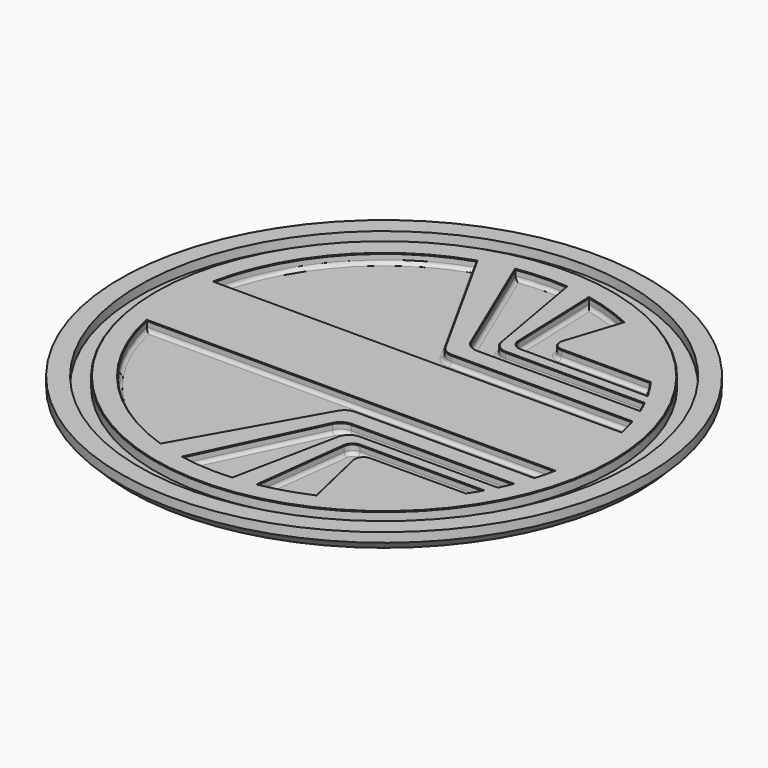
from build123d import *

# Parameters (mm, degrees)
F1_R     = 56.5
F1_R_2   = 52.5
F1_R_3   = 49
F2_DEPTH = 4
F3_DEPTH = 2
F4_R     = 0.75
F5_SIZE  = 0.15
F6_SIZE  = 2


with BuildPart() as f2:
    # F1 (on Top) → F2 (new body)
    with BuildSketch(Plane.XY):
        Circle(F1_R)
        Circle(F1_R_2, mode=Mode.SUBTRACT)
        Circle(F1_R_2)
        Circle(F1_R_3, mode=Mode.SUBTRACT)
        Circle(F1_R_3)
        with BuildLine():
            Line((6.6638755171, -17), (41.12481003, -17))
            ThreePointArc((41.12481003, -17), (40.5816608901, -18.2586636806), (40, -19.5))
            Line((40, -19.5), (10.5168130375, -19.5))
            ThreePointArc((10.5168130375, -19.5), (8.6186970519, -20.1768220678), (7.5770389237, -21.9018961967))
            Line((7.5770389237, -21.9018961967), (3, -44.398761244))
            ThreePointArc((3, -44.398761244), (-2.5193792388, -44.4286250997), (-8, -43.7749928612))
            Line((-8, -43.7749928612), (3.9561196641, -18.7084667096))
            ThreePointArc((3.9561196641, -18.7084667096), (5.0630319694, -17.4628165349), (6.6638755171, -17))
        make_face(mode=Mode.SUBTRACT)
        with BuildLine():
            Line((12.4430834662, -22), (38.6813908747, -22))
            ThreePointArc((38.6813908747, -22), (37.9354708337, -23.2626321088), (37.148351242, -24.5))
            Line((37.148351242, -24.5), (16.7749606187, -24.5))
            ThreePointArc((16.7749606187, -24.5), (15.209744305, -25.2549707267), (14.8262204891, -26.9499021087))
            Line((14.8262204891, -26.9499021087), (18, -40.6970514902))
            ThreePointArc((18, -40.6970514902), (13.0907765534, -42.5309483697), (8, -43.7749928612))
            Line((8, -43.7749928612), (10.457991163, -23.7562613132))
            ThreePointArc((10.457991163, -23.7562613132), (11.1178433698, -22.5020885584), (12.4430834662, -22))
        make_face(mode=Mode.SUBTRACT)
        with BuildLine():
            ThreePointArc((-14, -42.240383521), (-33.2431342179, -29.5828333222), (-43.5803854962, -9))
            Line((-43.5803854962, -9), (43.5803854962, -9))
            ThreePointArc((43.5803854962, -9), (43.1159956631, -11.0118535214), (42.5587828773, -13))
            Line((42.5587828773, -13), (4.2929613101, -13))
            ThreePointArc((4.2929613101, -13), (2.781639379, -13.4084934844), (1.6818942223, -14.5227293197))
            Line((1.6818942223, -14.5227293197), (-14, -42.240383521))
        make_face(mode=Mode.SUBTRACT)
        with BuildLine():
            ThreePointArc((-43.5803854962, 9), (-33.2431342179, 29.5828333222), (-14, 42.240383521))
            Line((-14, 42.240383521), (1.3514851815, 14.5455711393))
            ThreePointArc((1.3514851815, 14.5455711393), (2.452729214, 13.4151125187), (3.9753443029, 13))
            Line((3.9753443029, 13), (42.5587828773, 13))
            ThreePointArc((42.5587828773, 13), (43.1159956631, 11.0118535214), (43.5803854962, 9))
            Line((43.5803854962, 9), (-43.5803854962, 9))
        make_face(mode=Mode.SUBTRACT)
        with BuildLine():
            Line((3.662036097, 18.8278066145), (-7, 43.9459895781))
            ThreePointArc((-7, 43.9459895781), (-1.7623270262, 44.465089716), (3.5, 44.3621460256))
            Line((3.5, 44.3621460256), (7.4467427771, 21.979055467))
            ThreePointArc((7.4467427771, 21.979055467), (8.4728032071, 20.2018666706), (10.4011660362, 19.5))
            Line((10.4011660362, 19.5), (40, 19.5))
            ThreePointArc((40, 19.5), (40.5816608901, 18.2586636806), (41.12481003, 17))
            Line((41.12481003, 17), (6.4235506573, 17))
            ThreePointArc((6.4235506573, 17), (4.7677397014, 17.4983425338), (3.662036097, 18.8278066145))
        make_face(mode=Mode.SUBTRACT)
        with BuildLine():
            Line((9.686199563, 23.9302010066), (9, 43.5803854962))
            ThreePointArc((9, 43.5803854962), (14.0992801781, 42.2073488679), (19, 40.2399055665))
            Line((19, 40.2399055665), (15.2238250173, 28.6180339887))
            ThreePointArc((15.2238250173, 28.6180339887), (15.5079040611, 26.8244294954), (17.1259380499, 26))
            Line((17.1259380499, 26), (36.1144015595, 26))
            ThreePointArc((36.1144015595, 26), (37.4513369783, 24.0342954658), (38.6813908747, 22))
            Line((38.6813908747, 22), (11.6849812171, 22))
            ThreePointArc((11.6849812171, 22), (10.2956644762, 22.5613203993), (9.686199563, 23.9302010066))
        make_face(mode=Mode.SUBTRACT)
        with BuildLine():
            ThreePointArc((40, -19.5), (40.5816608901, -18.2586636806), (41.12481003, -17))
            Line((41.12481003, -17), (6.6638755171, -17))
            ThreePointArc((6.6638755171, -17), (5.0630319694, -17.4628165349), (3.9561196641, -18.7084667096))
            Line((3.9561196641, -18.7084667096), (-8, -43.7749928612))
            ThreePointArc((-8, -43.7749928612), (-2.5193792388, -44.4286250997), (3, -44.398761244))
            Line((3, -44.398761244), (7.5770389237, -21.9018961967))
            ThreePointArc((7.5770389237, -21.9018961967), (8.6186970519, -20.1768220678), (10.5168130375, -19.5))
            Line((10.5168130375, -19.5), (40, -19.5))
        make_face()
        with BuildLine():
            ThreePointArc((37.148351242, -24.5), (37.9354708337, -23.2626321088), (38.6813908747, -22))
            Line((38.6813908747, -22), (12.4430834662, -22))
            ThreePointArc((12.4430834662, -22), (11.1178433698, -22.5020885584), (10.457991163, -23.7562613132))
            Line((10.457991163, -23.7562613132), (8, -43.7749928612))
            ThreePointArc((8, -43.7749928612), (13.0907765534, -42.5309483697), (18, -40.6970514902))
            Line((18, -40.6970514902), (14.8262204891, -26.9499021087))
            ThreePointArc((14.8262204891, -26.9499021087), (15.209744305, -25.2549707267), (16.7749606187, -24.5))
            Line((16.7749606187, -24.5), (37.148351242, -24.5))
        make_face()
        with BuildLine():
            Line((1.3514851815, 14.5455711393), (-14, 42.240383521))
            ThreePointArc((-14, 42.240383521), (-33.2431342179, 29.5828333222), (-43.5803854962, 9))
            Line((-43.5803854962, 9), (43.5803854962, 9))
            ThreePointArc((43.5803854962, 9), (43.1159956631, 11.0118535214), (42.5587828773, 13))
            Line((42.5587828773, 13), (3.9753443029, 13))
            ThreePointArc((3.9753443029, 13), (2.452729214, 13.4151125187), (1.3514851815, 14.5455711393))
        make_face()
        with BuildLine():
            ThreePointArc((3.5, 44.3621460256), (-1.7623270262, 44.465089716), (-7, 43.9459895781))
            Line((-7, 43.9459895781), (3.662036097, 18.8278066145))
            ThreePointArc((3.662036097, 18.8278066145), (4.7677397014, 17.4983425338), (6.4235506573, 17))
            Line((6.4235506573, 17), (41.12481003, 17))
            ThreePointArc((41.12481003, 17), (40.5816608901, 18.2586636806), (40, 19.5))
            Line((40, 19.5), (10.4011660362, 19.5))
            ThreePointArc((10.4011660362, 19.5), (8.4728032071, 20.2018666706), (7.4467427771, 21.979055467))
            Line((7.4467427771, 21.979055467), (3.5, 44.3621460256))
        make_face()
        with BuildLine():
            ThreePointArc((19, 40.2399055665), (14.0992801781, 42.2073488679), (9, 43.5803854962))
            Line((9, 43.5803854962), (9.686199563, 23.9302010066))
            ThreePointArc((9.686199563, 23.9302010066), (10.2956644762, 22.5613203993), (11.6849812171, 22))
            Line((11.6849812171, 22), (38.6813908747, 22))
            ThreePointArc((38.6813908747, 22), (37.4513369783, 24.0342954658), (36.1144015595, 26))
            Line((36.1144015595, 26), (17.1259380499, 26))
            ThreePointArc((17.1259380499, 26), (15.5079040611, 26.8244294954), (15.2238250173, 28.6180339887))
            Line((15.2238250173, 28.6180339887), (19, 40.2399055665))
        make_face()
        with BuildLine():
            Line((43.5803854962, -9), (-43.5803854962, -9))
            ThreePointArc((-43.5803854962, -9), (-33.2431342179, -29.5828333222), (-14, -42.240383521))
            Line((-14, -42.240383521), (1.6818942223, -14.5227293197))
            ThreePointArc((1.6818942223, -14.5227293197), (2.781639379, -13.4084934844), (4.2929613101, -13))
            Line((4.2929613101, -13), (42.5587828773, -13))
            ThreePointArc((42.5587828773, -13), (43.1159956631, -11.0118535214), (43.5803854962, -9))
        make_face()
    extrude(amount=-F2_DEPTH)

    # F1 (on Top) → F3 (cut)
    with BuildSketch(Plane.XY):
        Circle(F1_R_2)
        Circle(F1_R_3, mode=Mode.SUBTRACT)
        with BuildLine():
            Line((1.3514851815, 14.5455711393), (-14, 42.240383521))
            ThreePointArc((-14, 42.240383521), (-33.2431342179, 29.5828333222), (-43.5803854962, 9))
            Line((-43.5803854962, 9), (43.5803854962, 9))
            ThreePointArc((43.5803854962, 9), (43.1159956631, 11.0118535214), (42.5587828773, 13))
            Line((42.5587828773, 13), (3.9753443029, 13))
            ThreePointArc((3.9753443029, 13), (2.452729214, 13.4151125187), (1.3514851815, 14.5455711393))
        make_face()
        with BuildLine():
            ThreePointArc((3.5, 44.3621460256), (-1.7623270262, 44.465089716), (-7, 43.9459895781))
            Line((-7, 43.9459895781), (3.662036097, 18.8278066145))
            ThreePointArc((3.662036097, 18.8278066145), (4.7677397014, 17.4983425338), (6.4235506573, 17))
            Line((6.4235506573, 17), (41.12481003, 17))
            ThreePointArc((41.12481003, 17), (40.5816608901, 18.2586636806), (40, 19.5))
            Line((40, 19.5), (10.4011660362, 19.5))
            ThreePointArc((10.4011660362, 19.5), (8.4728032071, 20.2018666706), (7.4467427771, 21.979055467))
            Line((7.4467427771, 21.979055467), (3.5, 44.3621460256))
        make_face()
        with BuildLine():
            ThreePointArc((19, 40.2399055665), (14.0992801781, 42.2073488679), (9, 43.5803854962))
            Line((9, 43.5803854962), (9.686199563, 23.9302010066))
            ThreePointArc((9.686199563, 23.9302010066), (10.2956644762, 22.5613203993), (11.6849812171, 22))
            Line((11.6849812171, 22), (38.6813908747, 22))
            ThreePointArc((38.6813908747, 22), (37.4513369783, 24.0342954658), (36.1144015595, 26))
            Line((36.1144015595, 26), (17.1259380499, 26))
            ThreePointArc((17.1259380499, 26), (15.5079040611, 26.8244294954), (15.2238250173, 28.6180339887))
            Line((15.2238250173, 28.6180339887), (19, 40.2399055665))
        make_face()
        with BuildLine():
            ThreePointArc((37.148351242, -24.5), (37.9354708337, -23.2626321088), (38.6813908747, -22))
            Line((38.6813908747, -22), (12.4430834662, -22))
            ThreePointArc((12.4430834662, -22), (11.1178433698, -22.5020885584), (10.457991163, -23.7562613132))
            Line((10.457991163, -23.7562613132), (8, -43.7749928612))
            ThreePointArc((8, -43.7749928612), (13.0907765534, -42.5309483697), (18, -40.6970514902))
            Line((18, -40.6970514902), (14.8262204891, -26.9499021087))
            ThreePointArc((14.8262204891, -26.9499021087), (15.209744305, -25.2549707267), (16.7749606187, -24.5))
            Line((16.7749606187, -24.5), (37.148351242, -24.5))
        make_face()
        with BuildLine():
            ThreePointArc((40, -19.5), (40.5816608901, -18.2586636806), (41.12481003, -17))
            Line((41.12481003, -17), (6.6638755171, -17))
            ThreePointArc((6.6638755171, -17), (5.0630319694, -17.4628165349), (3.9561196641, -18.7084667096))
            Line((3.9561196641, -18.7084667096), (-8, -43.7749928612))
            ThreePointArc((-8, -43.7749928612), (-2.5193792388, -44.4286250997), (3, -44.398761244))
            Line((3, -44.398761244), (7.5770389237, -21.9018961967))
            ThreePointArc((7.5770389237, -21.9018961967), (8.6186970519, -20.1768220678), (10.5168130375, -19.5))
            Line((10.5168130375, -19.5), (40, -19.5))
        make_face()
        with BuildLine():
            Line((43.5803854962, -9), (-43.5803854962, -9))
            ThreePointArc((-43.5803854962, -9), (-33.2431342179, -29.5828333222), (-14, -42.240383521))
            Line((-14, -42.240383521), (1.6818942223, -14.5227293197))
            ThreePointArc((1.6818942223, -14.5227293197), (2.781639379, -13.4084934844), (4.2929613101, -13))
            Line((4.2929613101, -13), (42.5587828773, -13))
            ThreePointArc((42.5587828773, -13), (43.1159956631, -11.0118535214), (43.5803854962, -9))
        make_face()
    extrude(amount=-F3_DEPTH, mode=Mode.SUBTRACT)

    # F4
    f4_edges = [f2.edges().sort_by_distance(p)[0] for p in [
        (-6.324257, 28.392977, -2),
        (-33.243134, 29.582833, -2),
        (0, 9, -2),
        (43.115996, 11.011854, -2),
        (23.267064, 13, -2),
        (2.452729, 13.415113, -2),
        (25.200583, 19.5, -2),
        (8.472803, 20.201867, -2),
        (5.473371, 33.170601, -2),
        (-1.762327, 44.46509, -2),
        (-1.668982, 31.386898, -2),
        (4.76774, 17.498343, -2),
        (23.77418, 17, -2),
        (40.581661, 18.258664, -2),
        (14.09928, 42.207349, -2),
        (9.3431, 33.755293, -2),
        (10.295664, 22.56132, -2),
        (25.183186, 22, -2),
        (37.451337, 24.034295, -2),
        (26.62017, 26, -2),
        (15.507904, 26.824429, -2),
        (17.111913, 34.42897, -2),
        (0, -9, -2),
        (-33.243134, -29.582833, -2),
        (-6.159053, -28.381556, -2),
        (2.781639, -13.408493, -2),
        (23.425872, -13, -2),
        (43.115996, -11.011854, -2),
        (40.581661, -18.258664, -2),
        (23.894343, -17, -2),
        (5.063032, -17.462817, -2),
        (-2.02194, -31.24173, -2),
        (-2.519379, -44.428625, -2),
        (5.288519, -33.150329, -2),
        (8.618697, -20.176822, -2),
        (25.258407, -19.5, -2),
        (37.935471, -23.262632, -2),
        (25.562237, -22, -2),
        (11.117843, -22.502089, -2),
        (9.228996, -33.765627, -2),
        (13.090777, -42.530948, -2),
        (16.41311, -33.823477, -2),
        (15.209744, -25.254971, -2),
        (26.961656, -24.5, -2),
    ]]
    fillet(f4_edges, radius=F4_R)

    # F5
    f5_edges = [f2.edges().sort_by_distance(p)[0] for p in [
        (-49, 0, 0),
        (37.935471, -23.262632, 0),
        (25.562237, -22, 0),
        (11.117843, -22.502089, 0),
        (9.228996, -33.765627, 0),
        (13.090777, -42.530948, 0),
        (16.41311, -33.823477, 0),
        (15.209744, -25.254971, 0),
        (26.961656, -24.5, 0),
        (40.581661, -18.258664, 0),
        (23.894343, -17, 0),
        (5.063032, -17.462817, 0),
        (-2.02194, -31.24173, 0),
        (-2.519379, -44.428625, 0),
        (5.288519, -33.150329, 0),
        (8.618697, -20.176822, 0),
        (25.258407, -19.5, 0),
        (0, -9, 0),
        (-33.243134, -29.582833, 0),
        (-6.159053, -28.381556, 0),
        (2.781639, -13.408493, 0),
        (23.425872, -13, 0),
        (43.115996, -11.011854, 0),
        (-6.324257, 28.392977, 0),
        (-33.243134, 29.582833, 0),
        (0, 9, 0),
        (43.115996, 11.011854, 0),
        (23.267064, 13, 0),
        (2.452729, 13.415113, 0),
        (25.200583, 19.5, 0),
        (8.472803, 20.201867, 0),
        (5.473371, 33.170601, 0),
        (-1.762327, 44.46509, 0),
        (-1.668982, 31.386898, 0),
        (4.76774, 17.498343, 0),
        (23.77418, 17, 0),
        (40.581661, 18.258664, 0),
        (14.09928, 42.207349, 0),
        (9.3431, 33.755293, 0),
        (10.295664, 22.56132, 0),
        (25.183186, 22, 0),
        (37.451337, 24.034295, 0),
        (26.62017, 26, 0),
        (15.507904, 26.824429, 0),
        (17.111913, 34.42897, 0),
    ]]
    chamfer(f5_edges, length=F5_SIZE)

    # F6
    f6_edges = [f2.edges().sort_by_distance(p)[0] for p in [
        (-56.5, 0, -4),
    ]]
    chamfer(f6_edges, length=F6_SIZE)


solid = f2.part
